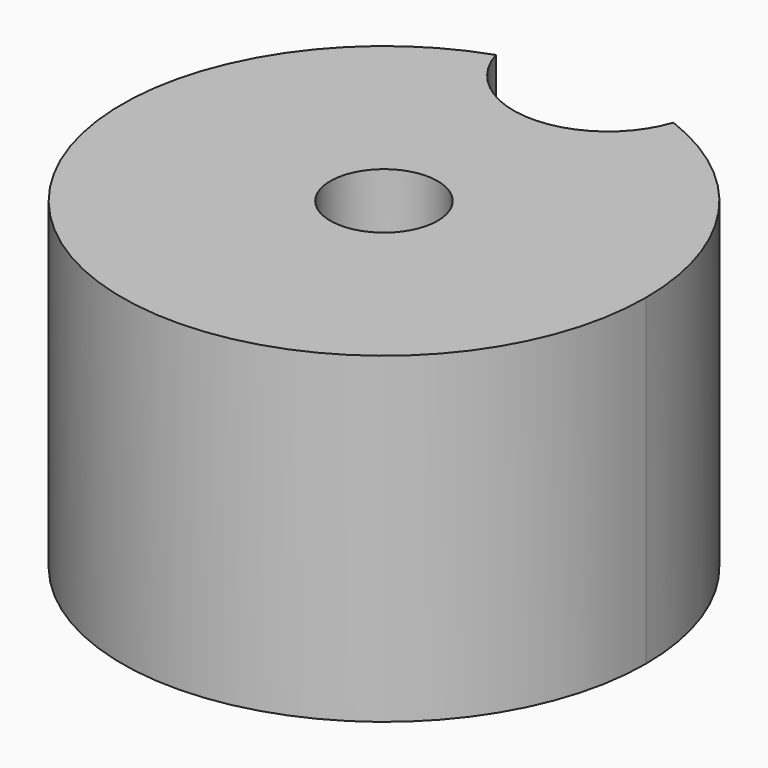
from build123d import *

# Parameters (mm, degrees)
F0_R     = 2
F1_DEPTH = 12
F2_R     = 3
F3_DEPTH = 25


with BuildPart() as f1:
    # F0 (on Top) → F1 (new body)
    with BuildSketch(Plane.XY):
        with BuildLine():
            ThreePointArc((-3.203903, 9.208556), (-5.64909, -7.946715), (9.75, 0))
            ThreePointArc((9.75, 0), (8.033905, 5.524389), (3.489718, 9.104085))
            ThreePointArc((3.489718, 9.104085), (0.1047, 6.708303), (-3.203903, 9.208556))
        make_face()
        Circle(F0_R, mode=Mode.SUBTRACT)
    extrude(amount=F1_DEPTH)

    # F2 (on Front) → F3 (cut)
    with BuildSketch(Plane.XZ):
        with Locations((0, 6)):
            Circle(F2_R)
    extrude(amount=-F3_DEPTH, mode=Mode.SUBTRACT)


solid = f1.part
